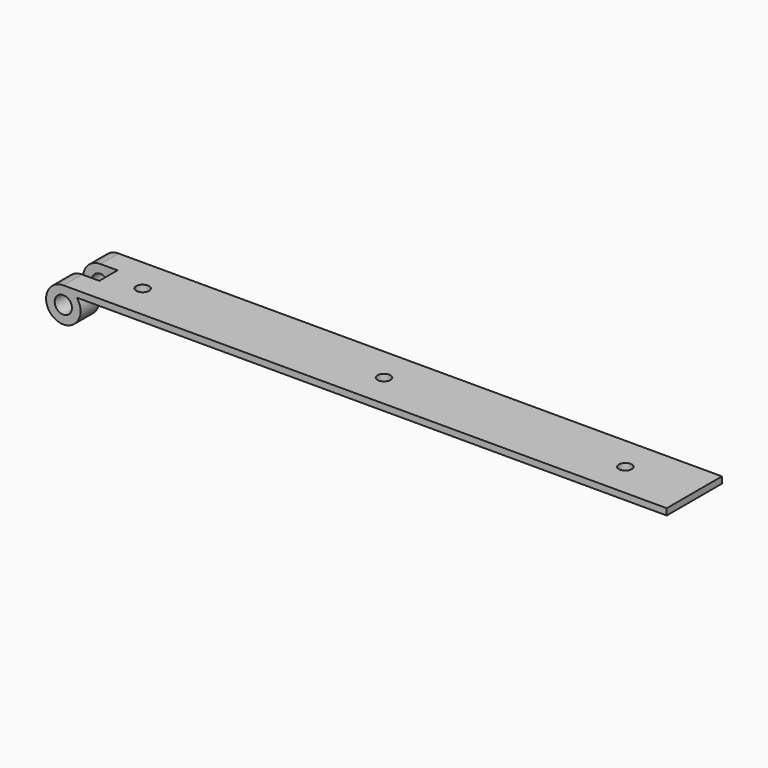
from build123d import *

# Parameters (mm, degrees)
F0_R     = 3.175
F1_DEPTH = 25.4
F2_R     = 2.38125
F3_DEPTH = 3.175
F4_W     = 12.7
F4_H     = 8.382
F5_DEPTH = 12.701
F6_SIZE2 = 0.79375
F6_SIZE  = 3.175


with BuildPart() as f1:
    # F0 (on Front) → F1 (new body)
    with BuildSketch(Plane.XZ):
        with BuildLine():
            Line((228.6, 0), (6.35, 0))
            ThreePointArc((6.35, 0), (3.175, -11.849261314), (11.849261314, -3.175))
            Line((11.849261314, -3.175), (228.6, -3.175))
            Line((228.6, -3.175), (228.6, 0))
        make_face()
        with Locations((6.35, -6.35)):
            Circle(F0_R, mode=Mode.SUBTRACT)
    extrude(amount=F1_DEPTH)

    # F2 (on face) → F3 (cut, through all)
    with BuildSketch(Plane.XY):
        with Locations((203.2, -12.7)):
            Circle(F2_R)
        with Locations((114.3, -12.7)):
            Circle(F2_R)
        with Locations((25.4, -12.7)):
            Circle(F2_R)
    extrude(amount=-F3_DEPTH, mode=Mode.SUBTRACT)

    # F4 (on face) → F5 (cut, through all)
    with BuildSketch(Plane.XY):
        with Locations((6.35, -12.573)):
            Rectangle(F4_W, F4_H)
    extrude(amount=-F5_DEPTH, mode=Mode.SUBTRACT)

    # F6
    f6_edges = [f1.edges().sort_by_distance(p)[0] for p in [
        (120.224631, -25.4, -3.175),
        (120.224631, 0, -3.175),
        (228.6, -12.7, -3.175),
    ]]
    f6_side = f1.faces().sort_by_distance((120.424157, -12.700166, -3.175))[0]
    chamfer(f6_edges, length=F6_SIZE, length2=F6_SIZE2, reference=f6_side)


solid = f1.part
